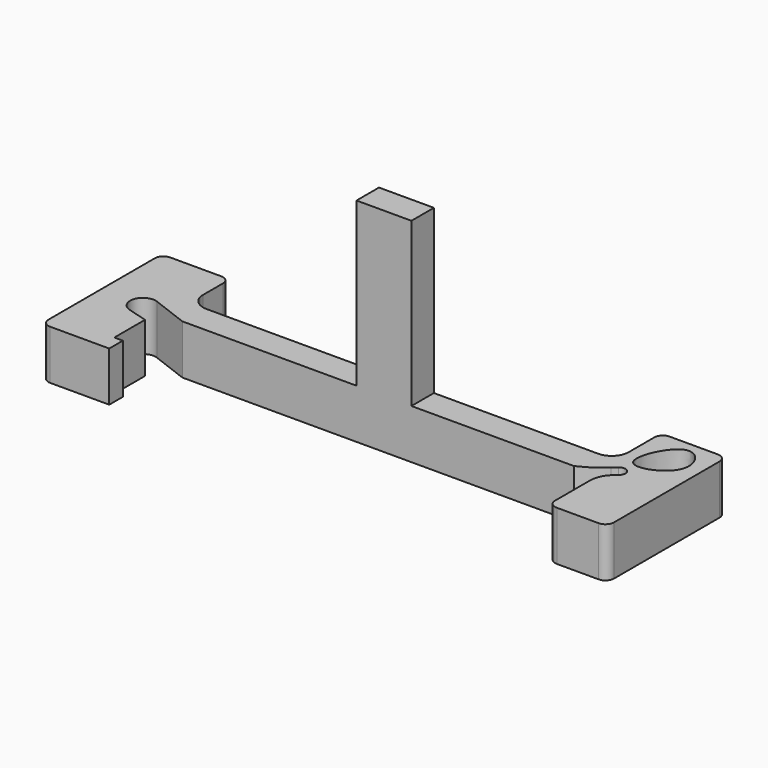
from build123d import *

# Parameters (mm, degrees)
PAD_DEPTH    = 5.81
SKETCH_W     = 6.45
SKETCH_H     = 3.3
PAD001_DEPTH = 19.15


with BuildPart() as part:
    # Sketch001 → Pad (new body)
    with BuildSketch(Plane.XY):
        with BuildLine():
            Line((3.062746, 9.7), (49.062746, 9.7))
            ThreePointArc((49.062746, 9.7), (50.47696, 10.285786), (51.062746, 11.7))
            Line((51.062746, 11.7), (51.062746, 15.45))
            ThreePointArc((51.062746, 15.45), (51.355639, 16.157107), (52.062746, 16.45))
            Line((52.062746, 16.45), (57.722746, 16.45))
            ThreePointArc((57.722746, 16.45), (58.429853, 16.157107), (58.722746, 15.45))
            Line((58.722746, 15.45), (58.722746, -0.05))
            ThreePointArc((58.722746, -0.05), (58.429853, -0.757107), (57.722746, -1.05))
            Line((57.722746, -1.05), (52.802746, -1.05))
            ThreePointArc((52.802746, -1.05), (52.095639, -0.757107), (51.802746, -0.05))
            Line((51.802746, -0.05), (51.802746, 5.077003))
            ThreePointArc((51.802746, 5.077003), (52.044532, 6.225282), (52.728831, 7.17856))
            Line((52.728831, 7.17856), (53.228831, 7.635716))
            ThreePointArc((53.228831, 7.635716), (53.27626, 8.695315), (52.216661, 8.742744))
            Line((52.216661, 8.742744), (51.716661, 8.285588))
            ThreePointArc((51.716661, 8.285588), (50.364126, 7.230817), (48.863581, 6.4))
            Line((48.863581, 6.4), (2.863581, 6.4))
            Line((2.863581, 6.4), (-1.404332, 8.022139))
            ThreePointArc((-1.404332, 8.022139), (-3.360147, 7.094739), (-2.353004, 5.178767))
            Line((-2.353004, 5.178767), (0, 4.5))
            Line((0, 4.5), (0, 0))
            Line((0, 0), (1, 0))
            Line((1, 0), (1, -2))
            Line((1, -2), (-5.937254, -2))
            ThreePointArc((-5.937254, -2), (-6.644361, -1.707107), (-6.937254, -1))
            Line((-6.937254, -1), (-6.937254, 14.62))
            ThreePointArc((-6.937254, 14.62), (-6.644361, 15.327107), (-5.937254, 15.62))
            Line((-5.937254, 15.62), (0.062746, 15.62))
            ThreePointArc((0.062746, 15.62), (0.769853, 15.327107), (1.062746, 14.62))
            Line((1.062746, 14.62), (1.062746, 11.7))
            ThreePointArc((1.062746, 11.7), (1.648533, 10.285786), (3.062746, 9.7))
        make_face()
        with BuildLine():
            add(Edge.make_bspline(
                [(52.607008, 10.402389), (51.880554, 11.468859), (54.72685, 17.934374), (59.085572, 11.535554), (53.333461, 9.335919), (52.607008, 10.402389)],
                knots=[0, 0, 0, 0, 0.333333, 0.666667, 1, 1, 1, 1], degree=3))
        make_face(mode=Mode.SUBTRACT)
    extrude(amount=PAD_DEPTH)

    # Sketch (on Face34 of Pad) → Pad001 (join)
    with BuildSketch(Plane.XY.offset(5.81)):
        with Locations((26.547746, 8.05)):
            Rectangle(SKETCH_W, SKETCH_H)
    extrude(amount=PAD001_DEPTH)


solid = part.part
